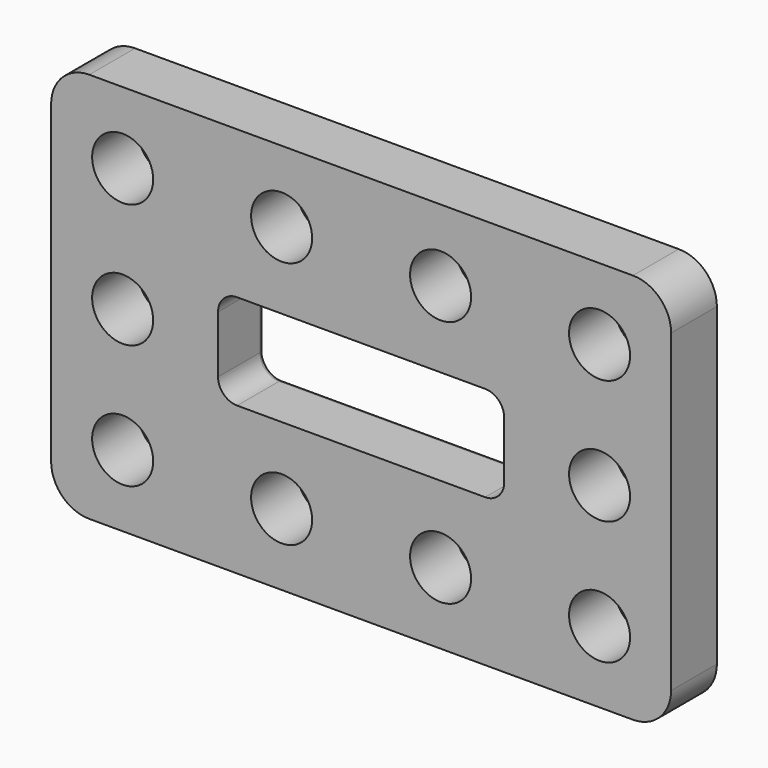
from build123d import *

# Parameters (mm, degrees)
F0_W     = 32.5
F0_H     = 20.5
F0_W_2   = 15
F0_H_2   = 5
F1_DEPTH = 3
F2_R     = 1.6
F3_DEPTH = 25
F4_R     = 1
F5_R     = 0.25
F6_R     = 2


with BuildPart() as f1:
    # F0 (on Front) → F1 (new body)
    with BuildSketch(Plane.XZ):
        with Locations((16.25, 10.25)):
            Rectangle(F0_W, F0_H)
        with Locations((16.25, 10.25)):
            Rectangle(F0_W_2, F0_H_2, mode=Mode.SUBTRACT)
    extrude(amount=F1_DEPTH)

    # F2 (on face) → F3 (cut)
    with BuildSketch(Plane.XZ.offset(3)):
        with Locations((3.75, 16.75)):
            Circle(F2_R)
        with Locations((3.75, 10.25)):
            Circle(F2_R)
        with Locations((3.75, 3.75)):
            Circle(F2_R)
        with Locations((12.0833333333, 16.75)):
            Circle(F2_R)
        with Locations((12.0833333333, 10.25)):
            Circle(F2_R)
        with Locations((12.0833333333, 3.75)):
            Circle(F2_R)
        with Locations((20.4166666667, 16.75)):
            Circle(F2_R)
        with Locations((20.4166666667, 10.25)):
            Circle(F2_R)
        with Locations((20.4166666667, 3.75)):
            Circle(F2_R)
        with Locations((28.75, 16.75)):
            Circle(F2_R)
        with Locations((28.75, 10.25)):
            Circle(F2_R)
        with Locations((28.75, 3.75)):
            Circle(F2_R)
    extrude(amount=-F3_DEPTH, mode=Mode.SUBTRACT)

    # F4
    f4_edges = [f1.edges().sort_by_distance(p)[0] for p in [
        (8.75, -1.5, 7.75),
        (8.75, -1.5, 12.75),
        (23.75, -1.5, 12.75),
        (23.75, -1.5, 7.75),
    ]]
    fillet(f4_edges, radius=F4_R)

    # F5
    f5_edges = [f1.edges().sort_by_distance(p)[0] for p in [
        (16.25, 0, 12.75),
        (9.042893, 0, 12.457107),
        (8.75, 0, 10.25),
        (9.042893, 0, 8.042893),
        (16.25, 0, 7.75),
        (23.457107, 0, 8.042893),
        (23.75, 0, 10.25),
        (23.457107, 0, 12.457107),
    ]]
    fillet(f5_edges, radius=F5_R)

    # F6
    f6_edges = [f1.edges().sort_by_distance(p)[0] for p in [
        (32.5, -1.5, 20.5),
        (32.5, -1.5, 0),
        (0, -1.5, 0),
        (0, -1.5, 20.5),
    ]]
    fillet(f6_edges, radius=F6_R)


solid = f1.part
